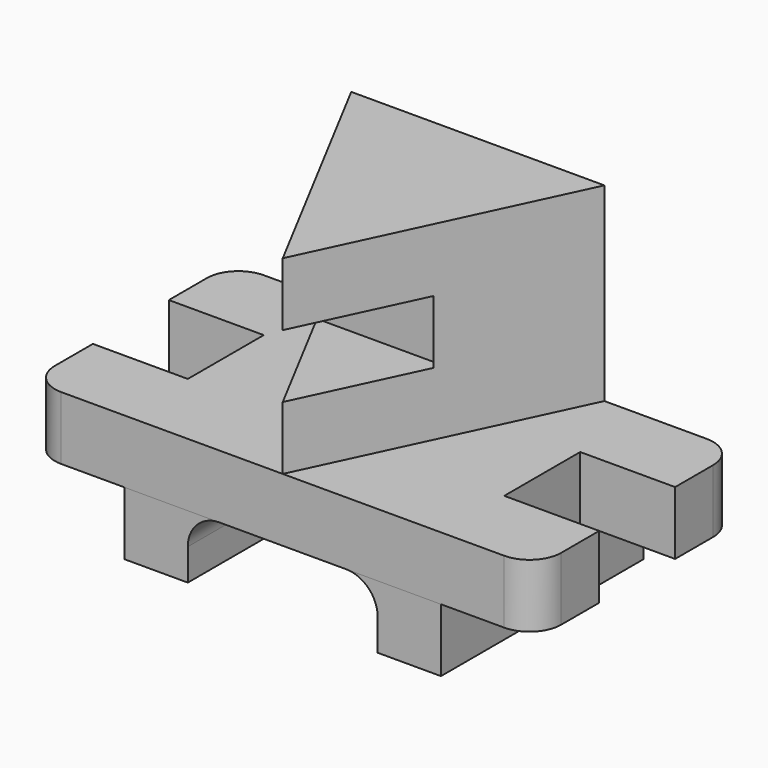
from build123d import *

# Parameters (mm, degrees)
F1_DEPTH = 50.8
F2_W     = 38.1
F2_H     = 25.4
F3_DEPTH = 19.05
F5_DEPTH = 25.4
F7_DEPTH = 76.2
F8_W     = 50.8
F8_H     = 25.4
F9_DEPTH = 50.801


with BuildPart() as f1:
    # F0 (on Front) → F1 (new body, symmetric)
    with BuildSketch(Plane.XZ):
        with BuildLine():
            ThreePointArc((63.5, -38.1), (67.219744, -29.119744), (76.2, -25.4))
            Line((76.2, -25.4), (38.1, -25.4))
            Line((38.1, -25.4), (38.1, -50.8))
            Line((38.1, -50.8), (63.5, -50.8))
            Line((63.5, -50.8), (63.5, -38.1))
        make_face()
        with BuildLine():
            Line((165.1, -50.8), (165.1, -25.4))
            Line((165.1, -25.4), (127, -25.4))
            ThreePointArc((127, -25.4), (135.980256, -29.119744), (139.7, -38.1))
            Line((139.7, -38.1), (139.7, -50.8))
            Line((139.7, -50.8), (165.1, -50.8))
        make_face()
    extrude(amount=F1_DEPTH, both=True)

    # F2 (on Front) → F3 (cut, symmetric)
    with BuildSketch(Plane.XZ):
        with Locations((19.05, -12.7)):
            Rectangle(F2_W, F2_H)
        with Locations((184.15, -12.7)):
            Rectangle(F2_W, F2_H)
    extrude(amount=F3_DEPTH, both=True, mode=Mode.SUBTRACT)


with BuildPart() as f5:
    # F4 (on Top) → F5 (new body)
    with BuildSketch(Plane.XY):
        with BuildLine():
            ThreePointArc((0, -38.1), (3.719744, -47.080256), (12.7, -50.8))
            Line((12.7, -50.8), (190.5, -50.8))
            ThreePointArc((190.5, -50.8), (199.480256, -47.080256), (203.2, -38.1))
            Line((203.2, -38.1), (203.2, -19.05))
            Line((203.2, -19.05), (165.1, -19.05))
            Line((165.1, -19.05), (165.1, 19.05))
            Line((165.1, 19.05), (203.2, 19.05))
            Line((203.2, 19.05), (203.2, 38.1))
            ThreePointArc((203.2, 38.1), (199.480256, 47.080256), (190.5, 50.8))
            Line((190.5, 50.8), (12.7, 50.8))
            ThreePointArc((12.7, 50.8), (3.719744, 47.080256), (0, 38.1))
            Line((0, 38.1), (0, 19.05))
            Line((0, 19.05), (38.1, 19.05))
            Line((38.1, 19.05), (38.1, -19.05))
            Line((38.1, -19.05), (0, -19.05))
            Line((0, -19.05), (0, -38.1))
        make_face()
    extrude(amount=-F5_DEPTH)

    # F6 (on Top) → F7 (join)
    with BuildSketch(Plane.XY):
        Polygon((149.420515, 50.8), (47.820515, 50.8), (101.6, -50.8), align=None)
    extrude(amount=F7_DEPTH)

    # F8 (on Front) → F9 (cut, through all)
    with BuildSketch(Plane.XZ):
        with Locations((98.620515, 38.1)):
            Rectangle(F8_W, F8_H)
    extrude(amount=F9_DEPTH, mode=Mode.SUBTRACT)


solid = Compound([f1.part, f5.part])
